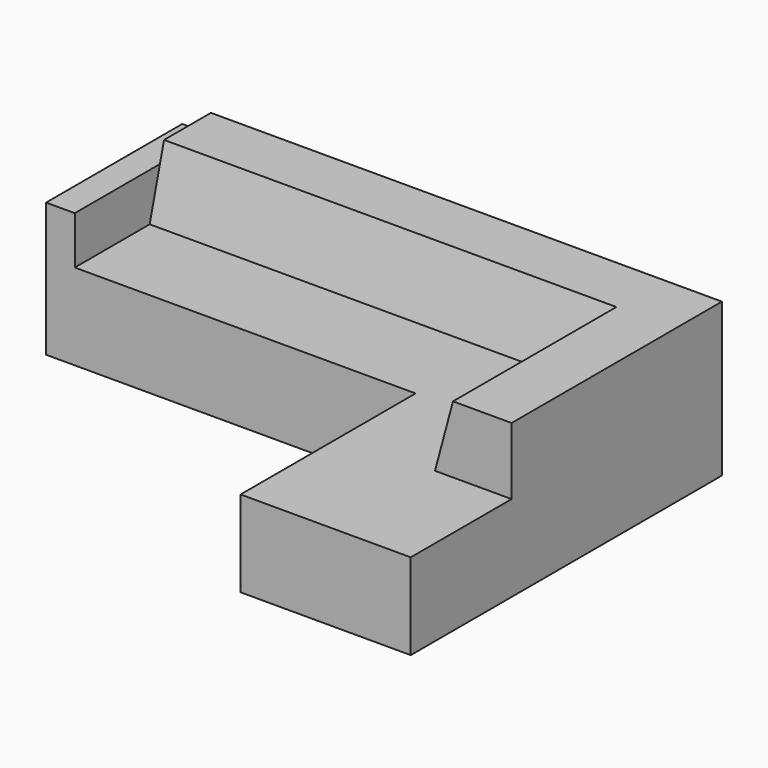
from build123d import *

# Parameters (mm, degrees)
F1_DEPTH  = 450
F2_W      = 889
F2_H      = 150
F2_W_2    = 150
F2_H_2    = 889
F3_DEPTH  = 250
F5_DEPTH  = 1882
F8_W      = 658.5683822632
F8_H      = 350
F9_DEPTH  = 889.001
F11_W     = 3085.2428972721
F11_H     = 1244.7776794434
F12_DEPTH = 2819.401


with BuildPart() as f1:
    # F0 (on Top) → F1 (new body)
    with BuildSketch(Plane.XY):
        Polygon((0, 2032), (0, 0), (889, 0), (889, 1143), (2819.4, 1143), (2819.4, 2032), align=None)
    extrude(amount=F1_DEPTH)

    # F2 (on face) → F3 (join)
    with BuildSketch(Plane.XY.offset(450)):
        with Locations((444.5, 75)):
            Rectangle(F2_W, F2_H)
        with Locations((2744.4, 1587.5)):
            Rectangle(F2_W_2, F2_H_2)
    extrude(amount=F3_DEPTH)

    # F4 (on face) → F5 (join, through all)
    with BuildSketch(Plane(origin=(0, 150, 0), x_dir=(-1, 0, 0), z_dir=(0, 1, 0))):
        Polygon((-400.05, 450), (0, 450), (0, 800), (-306.2677826491, 800), align=None)
    extrude(amount=F5_DEPTH)

    # F6 (on face) → F7 (join, up to the next surface of F1)
    with BuildSketch(Plane(origin=(2669.4, 0, 0), x_dir=(0, -1, 0), z_dir=(-1, 0, 0))):
        Polygon((-2032, 800), (-2032, 450), (-1631.95, 450), (-1725.7322173509, 800), align=None)
    extrude(until=Until.NEXT)

    # F8 (on face) → F9 (cut, through all)
    with BuildSketch(Plane.YZ.offset(889)):
        with Locations((329.2841911316, 625)):
            Rectangle(F8_W, F8_H)
    extrude(amount=-F9_DEPTH, mode=Mode.SUBTRACT)

    # F10: F1 across plane


with BuildPart() as f1_1:
    add(f1.part)
    add(f1.part.mirror(Plane.YZ))

    # F11 (on Right) → F12 (cut, through all)
    with BuildSketch(Plane.YZ):
        with Locations((1233.0443114042, 330.7127356529)):
            Rectangle(F11_W, F11_H)
    extrude(amount=F12_DEPTH, mode=Mode.SUBTRACT)


solid = f1_1.part
